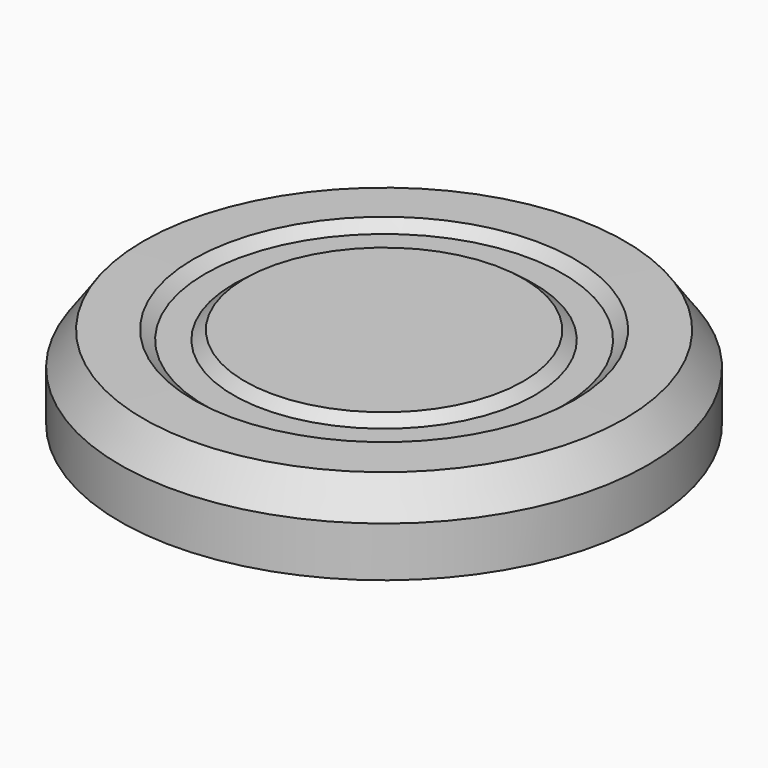
from build123d import *


with BuildPart() as f1:
    # F0 (on Front) → F1 (revolve)
    with BuildSketch(Plane.XZ):
        with BuildLine():
            Line((0, 18.835068), (0, 17.609475))
            Line((0, 17.609475), (19.991867, 17.609475))
            Line((19.991867, 17.609475), (21.701969, 16.304862))
            Line((21.701969, 16.304862), (25.792107, 16.304862))
            Line((25.792107, 16.304862), (27.484577, 17.609475))
            Line((27.484577, 17.609475), (28.393796, 17.591845))
            Line((28.393796, 17.591845), (31.673644, 13.979788))
            Line((31.673644, 13.979788), (31.673644, 9.703271))
            Line((31.673644, 9.703271), (32.315951, 9.703271))
            Line((32.315951, 9.703271), (32.686155, 9.703271))
            Line((32.686155, 9.703271), (32.686155, 11.337052))
            Line((32.686155, 11.337052), (33.010233, 11.337052))
            Line((33.010233, 11.337052), (35, 11.337052))
            Line((35, 11.337052), (35, 11))
            Line((35, 11), (35, 8.371891))
            Line((35, 8.371891), (35, 8.355655))
            ThreePointArc((35, 8.355655), (35.431254, 7.31071), (36.469181, 6.862827))
            Line((36.469181, 6.862827), (36.533354, 6.862827))
            Line((36.533354, 6.862827), (38.066708, 6.862827))
            Line((38.066708, 6.862827), (38.066708, 14.065838))
            Line((38.066708, 14.065838), (34.698747, 18.835068))
            Line((34.698747, 18.835068), (27.484577, 18.896459))
            Line((27.484577, 18.896459), (25.792107, 17.591845))
            Line((25.792107, 17.591845), (21.710073, 17.591845))
            Line((21.710073, 17.591845), (20.080443, 18.835068))
            Line((20.080443, 18.835068), (0, 18.835068))
        make_face()
    revolve(axis=Axis((0, 0, 9.957263), (0, 0, 1)))


solid = f1.part
